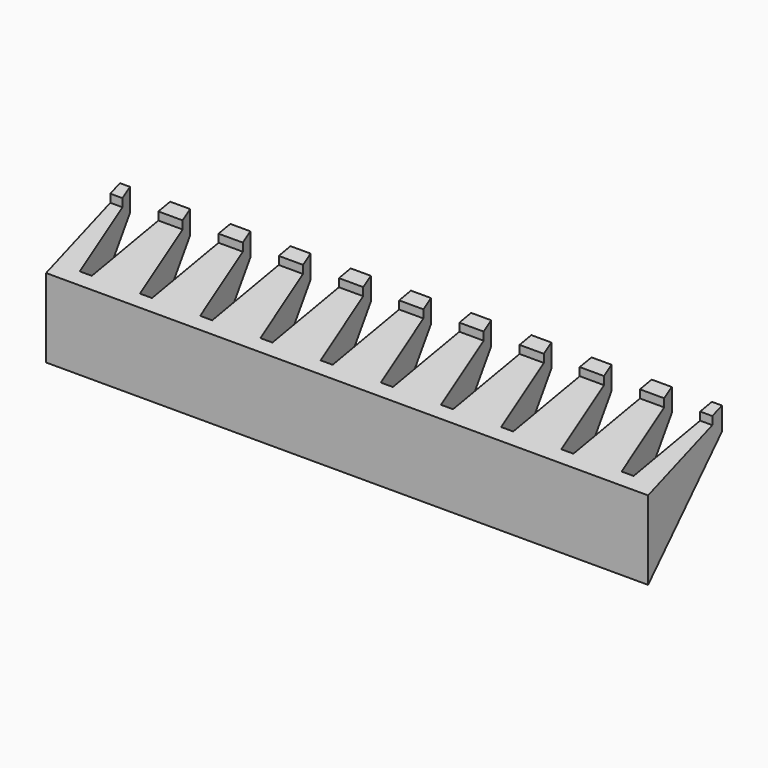
from build123d import *

# Parameters (mm, degrees)
F1_DEPTH = 30
F3_DEPTH = 150.001


with BuildPart() as f1:
    # F0 (on Top) → F1 (new body)
    with BuildSketch(Plane.XY):
        Polygon((-5, 23), (-7.5, 23), (-7.5, 0), (142.5, 0), (142.5, 23), (140, 23), (136.5, 3), (135, 3), (133.5, 3), (130, 23), (127.5, 23), (125, 23), (121.5, 3), (120, 3), (118.5, 3), (115, 23), (112.5, 23), (110, 23), (106.5, 3), (105, 3), (103.5, 3), (100, 23), (97.5, 23), (95, 23), (91.5, 3), (90, 3), (88.5, 3), (85, 23), (82.5, 23), (80, 23), (76.5, 3), (75, 3), (73.5, 3), (70, 23), (67.5, 23), (65, 23), (61.5, 3), (60, 3), (58.5, 3), (55, 23), (52.5, 23), (50, 23), (46.5, 3), (45, 3), (43.5, 3), (40, 23), (37.5, 23), (35, 23), (31.5, 3), (30, 3), (28.5, 3), (25, 23), (22.5, 23), (20, 23), (16.5, 3), (15, 3), (13.5, 3), (10, 23), (7.5, 23), (5, 23), (1.5, 3), (0, 3), (-1.5, 3), align=None)
    extrude(amount=F1_DEPTH)

    # F2 (on face) → F3 (cut, through all)
    with BuildSketch(Plane.YZ.offset(142.5)):
        Polygon((20, 28.908089), (23, 30), (0, 30), (0, 19.628685), (20, 26.908089), align=None)
        Polygon((23, 24.258563), (0, 0), (23, 0), align=None)
    extrude(amount=-F3_DEPTH, mode=Mode.SUBTRACT)


solid = f1.part
